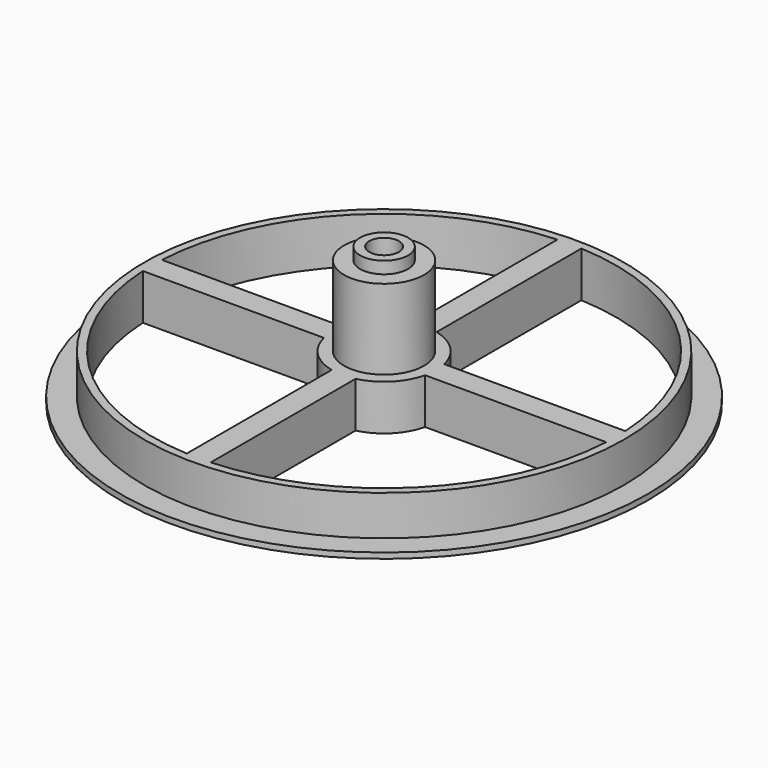
from build123d import *

# Parameters (mm, degrees)
F0_R      = 30
F1_DEPTH  = 5
F2_R      = 5
F3_DEPTH  = 10
F4_R      = 1.85
F5_DEPTH  = 15
F6_R      = 3
F6_R_2    = 1.85
F7_DEPTH  = 1.5
F9_DEPTH  = 5
F10_R     = 33
F10_R_2   = 30
F10_R_3   = 1.85
F11_DEPTH = 0.7


with BuildPart() as f1:
    # F0 (on Top) → F1 (new body)
    with BuildSketch(Plane.XY):
        Circle(F0_R)
    extrude(amount=F1_DEPTH)

    # F2 (on face) → F3 (join)
    with BuildSketch(Plane.XY.offset(5)):
        Circle(F2_R)
    extrude(amount=F3_DEPTH)

    # F4 (on face) → F5 (cut, through all)
    with BuildSketch(Plane.XY.offset(15)):
        Circle(F4_R)
    extrude(amount=-F5_DEPTH, mode=Mode.SUBTRACT)

    # F6 (on face) → F7 (join)
    with BuildSketch(Plane.XY.offset(15)):
        Circle(F6_R)
        Circle(F6_R_2, mode=Mode.SUBTRACT)
    extrude(amount=F7_DEPTH)

    # F8 (on face) → F9 (cut, through all)
    with BuildSketch(Plane.XY.offset(5)):
        with BuildLine():
            Line((6.3245553203, 1.5), (28.9611809151, 1.5))
            ThreePointArc((28.9611809151, 1.5), (20.5060966544, 20.5060966544), (1.5, 28.9611809151))
            Line((1.5, 28.9611809151), (1.5, 6.3245553203))
            ThreePointArc((1.5, 6.3245553203), (4.5961940777, 4.5961940777), (6.3245553203, 1.5))
        make_face()
        with BuildLine():
            Line((-1.5, 6.3245553203), (-1.5, 28.9611809151))
            ThreePointArc((-1.5, 28.9611809151), (-20.5060966544, 20.5060966544), (-28.9611809151, 1.5))
            Line((-28.9611809151, 1.5), (-6.3245553203, 1.5))
            ThreePointArc((-6.3245553203, 1.5), (-4.5961940777, 4.5961940777), (-1.5, 6.3245553203))
        make_face()
        with BuildLine():
            ThreePointArc((-28.9611809151, -1.5), (-20.5060966544, -20.5060966544), (-1.5, -28.9611809151))
            Line((-1.5, -28.9611809151), (-1.5, -6.3245553203))
            ThreePointArc((-1.5, -6.3245553203), (-4.5961940777, -4.5961940777), (-6.3245553203, -1.5))
            Line((-6.3245553203, -1.5), (-28.9611809151, -1.5))
        make_face()
        with BuildLine():
            ThreePointArc((1.5, -28.9611809151), (20.5060966544, -20.5060966544), (28.9611809151, -1.5))
            Line((28.9611809151, -1.5), (6.3245553203, -1.5))
            ThreePointArc((6.3245553203, -1.5), (4.5961940777, -4.5961940777), (1.5, -6.3245553203))
            Line((1.5, -6.3245553203), (1.5, -28.9611809151))
        make_face()
    extrude(amount=-F9_DEPTH, mode=Mode.SUBTRACT)

    # F10 (on face) → F11 (join)
    with BuildSketch(Plane(origin=(0, 0, 0), x_dir=(1, 0, 0), z_dir=(0, 0, -1))):
        Circle(F10_R)
        Circle(F10_R_2, mode=Mode.SUBTRACT)
        Circle(F10_R_2)
        with BuildLine():
            Line((-1.5, -6.3245553203), (-1.5, -28.9611809151))
            ThreePointArc((-1.5, -28.9611809151), (-20.5060966544, -20.5060966544), (-28.9611809151, -1.5))
            Line((-28.9611809151, -1.5), (-6.3245553203, -1.5))
            ThreePointArc((-6.3245553203, -1.5), (-4.5961940777, -4.5961940777), (-1.5, -6.3245553203))
        make_face(mode=Mode.SUBTRACT)
        with BuildLine():
            ThreePointArc((28.9611809151, -1.5), (20.5060966544, -20.5060966544), (1.5, -28.9611809151))
            Line((1.5, -28.9611809151), (1.5, -6.3245553203))
            ThreePointArc((1.5, -6.3245553203), (4.5961940777, -4.5961940777), (6.3245553203, -1.5))
            Line((6.3245553203, -1.5), (28.9611809151, -1.5))
        make_face(mode=Mode.SUBTRACT)
        with BuildLine():
            ThreePointArc((-1.5, 6.3245553203), (-4.5961940777, 4.5961940777), (-6.3245553203, 1.5))
            Line((-6.3245553203, 1.5), (-28.9611809151, 1.5))
            ThreePointArc((-28.9611809151, 1.5), (-20.5060966544, 20.5060966544), (-1.5, 28.9611809151))
            Line((-1.5, 28.9611809151), (-1.5, 6.3245553203))
        make_face(mode=Mode.SUBTRACT)
        Circle(F10_R_3, mode=Mode.SUBTRACT)
        with BuildLine():
            Line((1.5, 6.3245553203), (1.5, 28.9611809151))
            ThreePointArc((1.5, 28.9611809151), (20.5060966544, 20.5060966544), (28.9611809151, 1.5))
            Line((28.9611809151, 1.5), (6.3245553203, 1.5))
            ThreePointArc((6.3245553203, 1.5), (4.5961940777, 4.5961940777), (1.5, 6.3245553203))
        make_face(mode=Mode.SUBTRACT)
    extrude(amount=F11_DEPTH)


solid = f1.part
